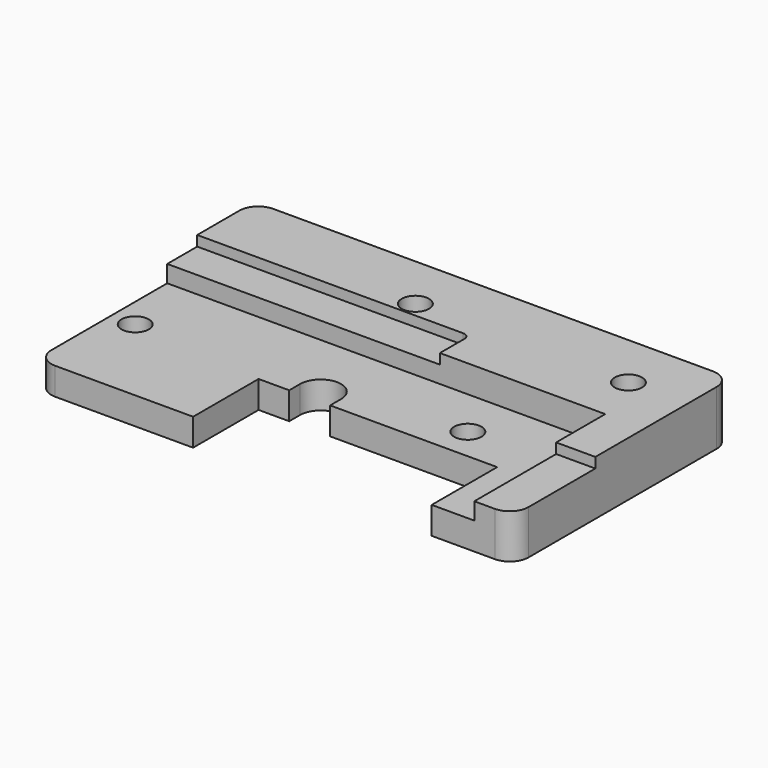
from build123d import *

# Parameters (mm, degrees)
SKETCH_W             = 70
SKETCH_H             = 40
PAD_DEPTH            = 8
POCKET_DEPTH         = 4
SKETCH002_R          = 2
POCKET001_DEPTH      = 4.001
SKETCH003_W          = 64.25
SKETCH003_H          = 24
POCKET002_DEPTH      = 4
SKETCH004_R          = 2
POCKET003_DEPTH      = 4
SKETCH005_W          = 35
SKETCH005_H          = 12
POCKET004_DEPTH      = 4
POCKET005_DEPTH      = 8.001
SKETCH009_W          = 5.75
SKETCH009_H          = 15
POCKET006_DEPTH      = 1.5
FILLET_R             = 2.75
CHAMFER_SIZE         = 1
BODY_PLACEMENT_ANGLE = 90


with BuildPart() as part:
    # Sketch → Pad (new body)
    with BuildSketch(Plane.XZ):
        Rectangle(SKETCH_W, SKETCH_H)
    extrude(amount=PAD_DEPTH)

    # Sketch001 (on Face5 of Pad) → Pocket (cut)
    with BuildSketch(Plane(origin=(0, 0, 0), x_dir=(1, 0, 0), z_dir=(0, 1, 0))):
        with BuildLine():
            Line((31.8, -20), (31.8, -7))
            ThreePointArc((31.8, -7), (31.507107, -6.292893), (30.8, -6))
            Line((30.8, -6), (-9.2, -6))
            ThreePointArc((-9.2, -6), (-9.907107, -6.292893), (-10.2, -7))
            Line((-10.2, -7), (-10.2, -20))
            Line((-10.2, -20), (31.8, -20))
        make_face()
    extrude(amount=-POCKET_DEPTH, mode=Mode.SUBTRACT)

    # Sketch002 (on Face7 of Pocket) → Pocket001 (cut, through all)
    with BuildSketch(Plane(origin=(0, -4, 0), x_dir=(1, 0, 0), z_dir=(0, 1, 0))):
        with Locations((-4.825, -11.78)):
            Circle(SKETCH002_R)
        with Locations((26.425, -11.78)):
            Circle(SKETCH002_R)
    extrude(amount=-POCKET001_DEPTH, mode=Mode.SUBTRACT)

    # Sketch003 (on Face5 of Pocket001) → Pocket002 (cut)
    with BuildSketch(Plane.XZ.offset(8)):
        with Locations((-2.875, -8)):
            Rectangle(SKETCH003_W, SKETCH003_H)
    extrude(amount=-POCKET002_DEPTH, mode=Mode.SUBTRACT)

    # Sketch004 (on Face4 of Pocket002) → Pocket003 (cut)
    with BuildSketch(Plane.XZ.offset(4)):
        with Locations((14.9, -3.25)):
            Circle(SKETCH004_R)
        with Locations((-31.5, -6.25)):
            Circle(SKETCH004_R)
    extrude(amount=-POCKET003_DEPTH, mode=Mode.SUBTRACT)

    # Sketch005 (on Face4 of Pocket003) → Pocket004 (cut)
    with BuildSketch(Plane.XZ.offset(4)):
        with Locations((5.5, -14)):
            Rectangle(SKETCH005_W, SKETCH005_H)
    extrude(amount=-POCKET004_DEPTH, mode=Mode.SUBTRACT)

    # Sketch008 (on Face2 of Pocket004) → Pocket005 (cut, through all)
    with BuildSketch(Plane(origin=(0, 0, 0), x_dir=(1, 0, 0), z_dir=(0, 1, 0))):
        with BuildLine():
            ThreePointArc((-7.5, 6), (-4.5, 3), (-1.5, 6))
            Line((-1.5, 8), (-1.5, 6))
            Line((-7.5, 8), (-1.5, 8))
            Line((-7.5, 8), (-7.5, 6))
        make_face()
    extrude(amount=-POCKET005_DEPTH, mode=Mode.SUBTRACT)

    # Sketch009 (on Face6 of Pocket005) → Pocket006 (cut)
    with BuildSketch(Plane.XZ.offset(8)):
        with BuildLine():
            Line((-35, 4), (5, 4))
            Line((5, 4), (5, 8.5))
            ThreePointArc((5, 8.5), (4.707107, 9.207107), (4, 9.5))
            Line((4, 9.5), (-35, 9.5))
            Line((-35, 9.5), (-35, 4))
        make_face()
        with Locations((32.125, -12.5)):
            Rectangle(SKETCH009_W, SKETCH009_H)
    extrude(amount=-POCKET006_DEPTH, mode=Mode.SUBTRACT)

    # Fillet
    fillet_edges = [part.edges().sort_by_distance(p)[0] for p in [
        (35, -4, 20),
        (-35, -4, 20),
        (35, -3.25, -20),
        (-35, -2, -20),
    ]]
    fillet(fillet_edges, radius=FILLET_R)

    # Chamfer
    chamfer_edges = [part.edges().sort_by_distance(p)[0] for p in [
        (-10.2, -2, 20),
    ]]
    chamfer(chamfer_edges, length=CHAMFER_SIZE)


with BuildPart() as part_1:
    # Body placement: moved
    add(part.part.rotate(Axis((0, 0, 0), (-1, 0, 0)), BODY_PLACEMENT_ANGLE))


solid = part_1.part
